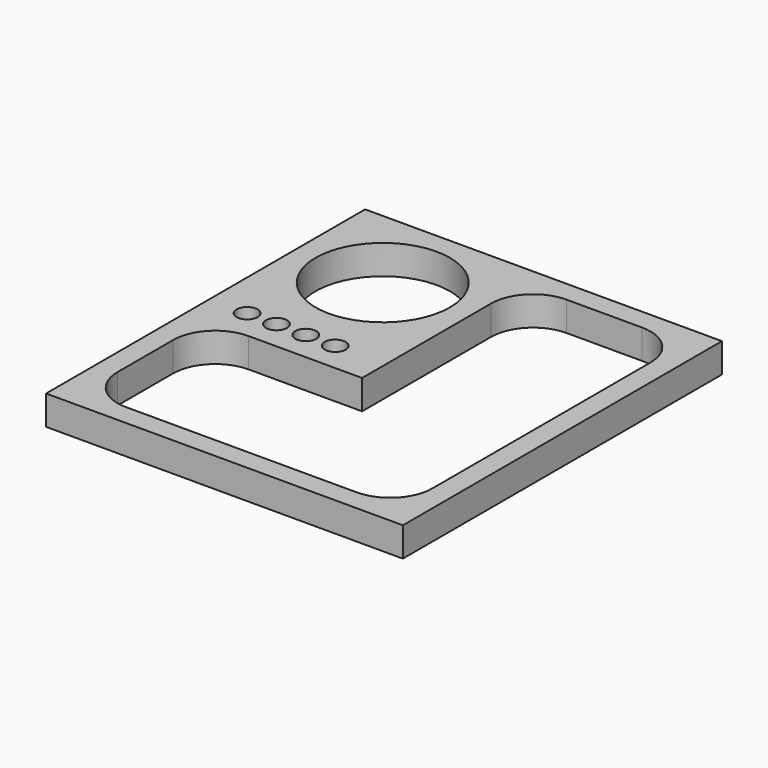
from build123d import *

# Parameters (mm, degrees)
F0_W     = 107.95
F0_H     = 120.65
F0_R     = 3.175
F0_R_2   = 20.32
F1_DEPTH = 8.89


with BuildPart() as f1:
    # F0 (on Top) → F1 (new body)
    with BuildSketch(Plane.XY):
        with Locations((53.975, -60.325)):
            Rectangle(F0_W, F0_H)
        with Locations((11.43, -58.931326)):
            Circle(F0_R, mode=Mode.SUBTRACT)
        with Locations((20.32, -58.931326)):
            Circle(F0_R, mode=Mode.SUBTRACT)
        with Locations((29.21, -58.931326)):
            Circle(F0_R, mode=Mode.SUBTRACT)
        with Locations((38.1, -58.931326)):
            Circle(F0_R, mode=Mode.SUBTRACT)
        with BuildLine():
            ThreePointArc((53.34, -19.05), (57.059744, -10.069744), (66.04, -6.35))
            Line((66.04, -6.35), (88.9, -6.35))
            ThreePointArc((88.9, -6.35), (97.880256, -10.069744), (101.6, -19.05))
            Line((101.6, -19.05), (101.6, -101.6))
            ThreePointArc((101.6, -101.6), (97.880256, -110.580256), (88.9, -114.3))
            Line((88.9, -114.3), (53.34, -114.3))
            Line((53.34, -114.3), (52.828665, -114.3))
            Line((52.828665, -114.3), (19.05, -114.3))
            ThreePointArc((19.05, -114.3), (10.069744, -110.580256), (6.35, -101.6))
            Line((6.35, -101.6), (6.35, -80.521326))
            ThreePointArc((6.35, -80.521326), (10.069744, -71.54107), (19.05, -67.821326))
            Line((19.05, -67.821326), (53.34, -67.821326))
            Line((53.34, -67.821326), (53.34, -19.05))
        make_face(mode=Mode.SUBTRACT)
        with Locations((26.67, -26.67)):
            Circle(F0_R_2, mode=Mode.SUBTRACT)
    extrude(amount=F1_DEPTH)


solid = f1.part
